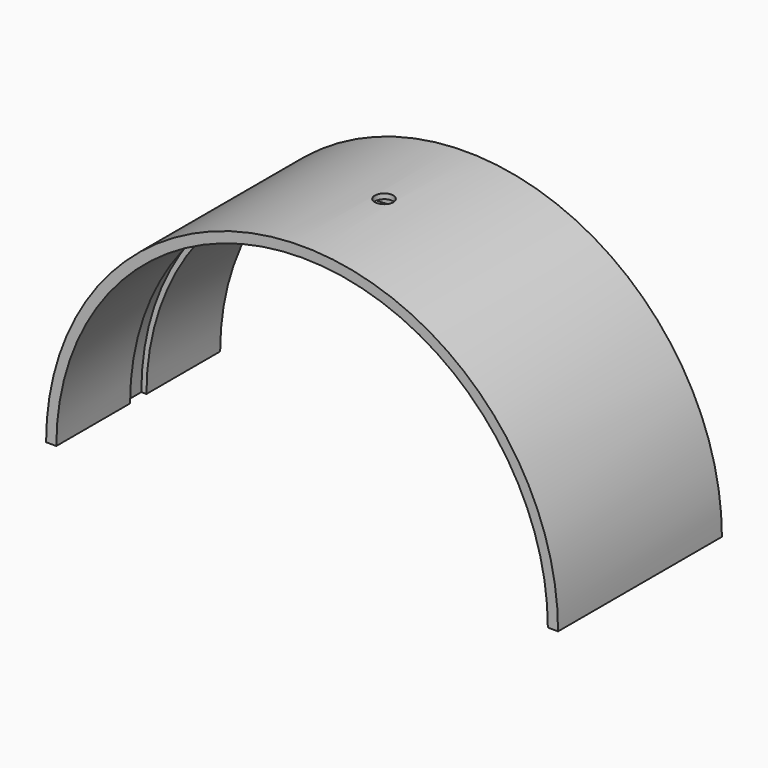
from build123d import *

# Parameters (mm, degrees)
F1_DEPTH = 20
F2_W     = 0.5
F2_H     = 2
F4_R     = 0.9
F5_DEPTH = 25.001


with BuildPart() as f1:
    # F0 (on Front) → F1 (new body)
    with BuildSketch(Plane.XZ):
        with BuildLine():
            Line((24, 0), (25, 0))
            ThreePointArc((25, 0), (0, 25), (-25, 0))
            Line((-25, 0), (-24, 0))
            ThreePointArc((-24, 0), (0, 24), (24, 0))
        make_face()
    extrude(amount=F1_DEPTH)

    # F2 (on face) → F3 (revolve, cut)
    with BuildSketch(Plane(origin=(0, 0, 0), x_dir=(1, 0, 0), z_dir=(0, 0, -1))):
        with Locations((-24.25, 10)):
            Rectangle(F2_W, F2_H)
    revolve(axis=Axis((0, -6.667699, 0), (0, -1, 0)), mode=Mode.SUBTRACT)

    # F4 (on face) → F5 (cut, through all)
    with BuildSketch(Plane(origin=(0, 0, 0), x_dir=(1, 0, 0), z_dir=(0, 0, -1))):
        with Locations((0, 10)):
            Circle(F4_R)
    extrude(amount=-F5_DEPTH, mode=Mode.SUBTRACT)


solid = f1.part
